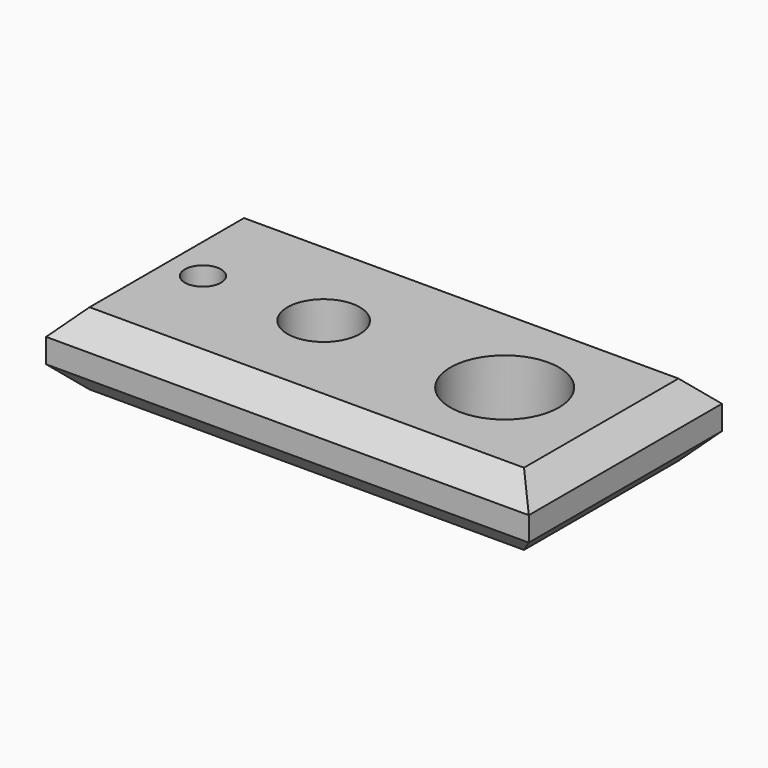
from build123d import *

# Parameters (mm, degrees)
F0_W     = 200
F0_H     = 100
F0_R     = 15
F0_R_2   = 22.5
F0_R_3   = 7.5
F1_DEPTH = 30
F2_SIZE2 = 10
F2_SIZE  = 10
F3_SIZE2 = 10
F3_SIZE  = 10
F4_SIZE2 = 5
F4_SIZE  = 5


with BuildPart() as f1:
    # F0 (on Top) → F1 (new body)
    with BuildSketch(Plane.XY):
        with Locations((0.287805, 7.908845)):
            Rectangle(F0_W, F0_H)
        with Locations((-24.712195, 7.908845)):
            Circle(F0_R, mode=Mode.SUBTRACT)
        with Locations((50.287805, 7.908845)):
            Circle(F0_R_2, mode=Mode.SUBTRACT)
        with Locations((-74.712195, 7.908845)):
            Circle(F0_R_3, mode=Mode.SUBTRACT)
    extrude(amount=F1_DEPTH)

    # F2
    f2_edges = [f1.edges().sort_by_distance(p)[0] for p in [
        (0.287805, 57.908845, 30),
        (-99.712195, 7.908845, 30),
        (0.287805, -42.091155, 30),
        (100.287805, 7.908845, 30),
    ]]
    chamfer(f2_edges, length=F2_SIZE, length2=F2_SIZE2)

    # F3
    f3_edges = [f1.edges().sort_by_distance(p)[0] for p in [
        (0.287805, 57.908845, 0),
        (-99.712195, 7.908845, 0),
        (0.287805, -42.091155, 0),
        (100.287805, 7.908845, 0),
    ]]
    chamfer(f3_edges, length=F3_SIZE, length2=F3_SIZE2)

    # F4
    f4_edges = [f1.edges().sort_by_distance(p)[0] for p in [
        (-82.212195, 7.908845, 0),
        (-39.712195, 7.908845, 0),
        (27.787805, 7.908845, 0),
    ]]
    chamfer(f4_edges, length=F4_SIZE, length2=F4_SIZE2)


solid = f1.part
